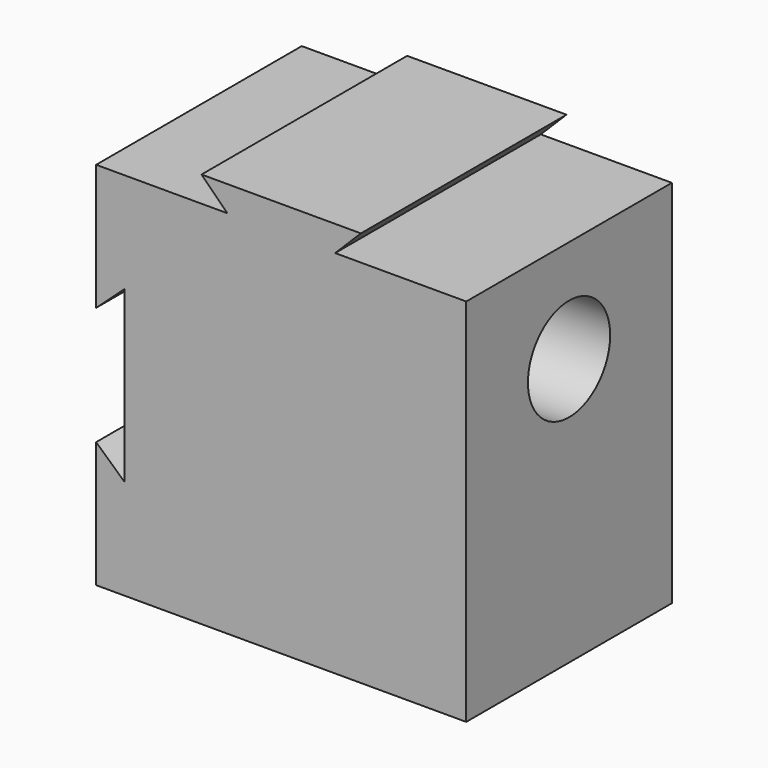
from build123d import *

# Parameters (mm, degrees)
F1_DEPTH = 50
F2_R     = 10
F3_DEPTH = 65
F4_R     = 10
F5_DEPTH = 35


with BuildPart() as f1:
    # F0 (on Front) → F1 (new body)
    with BuildSketch(Plane.XZ):
        Polygon((20.5, 5), (25.5, 0), (46.5, 0), (51.5, 5), align=None)
        Polygon((25.5, 0), (0, 0), (0, -24.5), (5.5, -19.5), (5.5, -52.5), (0, -47.5), (0, -72), (72, -72), (72, 0), (46.5, 0), align=None)
    extrude(amount=F1_DEPTH)

    # F2 (on face) → F3 (cut)
    with BuildSketch(Plane.YZ.offset(72)):
        with Locations((-25, -20)):
            Circle(F2_R)
    extrude(amount=-F3_DEPTH, mode=Mode.SUBTRACT)

    # F4 (on face) → F5 (cut)
    with BuildSketch(Plane(origin=(0, 0, -72), x_dir=(1, 0, 0), z_dir=(0, 0, -1))):
        with Locations((51, 24.231146)):
            Circle(F4_R)
        with Locations((21.009854, 25)):
            Circle(F4_R)
    extrude(amount=-F5_DEPTH, mode=Mode.SUBTRACT)


solid = f1.part
